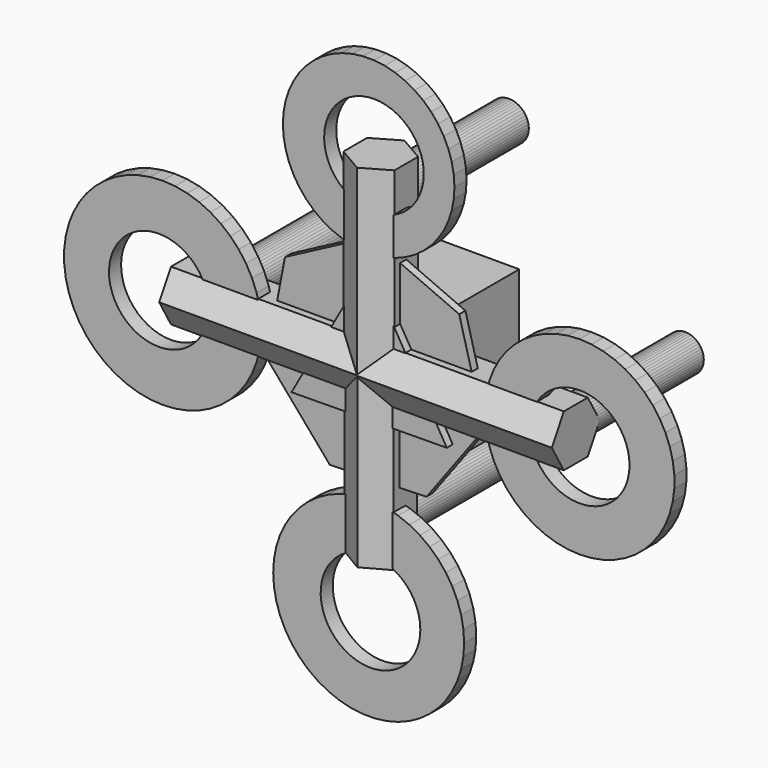
from build123d import *

# Parameters (mm, degrees)
F1_DEPTH  = 25.4
F3_DEPTH  = 12.954
F5_DEPTH  = 327.66
F7_DEPTH  = 332.74
F9_DEPTH  = 307.34
F11_DEPTH = 284.48
F12_R     = 83.720106
F14_DEPTH = 25.4
F13_R     = 83.720106
F15_DEPTH = 25.4
F16_W     = 225.521206
F16_H     = 225.521206
F17_DEPTH = 149.86
F19_DEPTH = 269.24
F21_DEPTH = 269.24
F23_DEPTH = 269.24
F25_DEPTH = 269.24


with BuildPart() as f1:
    # F0 (on Front) → F1 (new body)
    with BuildSketch(Plane.XZ):
        Polygon((-1.542326, 150.693503), (-129.733238, -76.682445), (131.275564, -74.011058), align=None)
    extrude(amount=F1_DEPTH)

    # F2 (on Front) → F3 (join)
    with BuildSketch(Plane.XZ):
        Polygon((-6.749487, 187.203073), (-150.569492, 111.442245), (-181.007598, -48.236866), (-75.143291, -171.592633), (87.305447, -165.735648), (184.011403, -35.076339), (142.153019, 121.996168), align=None)
    extrude(amount=F3_DEPTH)

    # F4 (on Right) → F5 (join)
    with BuildSketch(Plane.YZ):
        Polygon((-25.161333, -43.580707), (25.161333, -43.580707), (50.322666, 0), (25.161333, 43.580707), (-25.161333, 43.580707), (-50.322666, 0), align=None)
    extrude(amount=F5_DEPTH)

    # F6 (on Right) → F7 (join)
    with BuildSketch(Plane.YZ):
        Polygon((-24.636341, 42.756005), (-49.345957, 0.042305), (-24.709616, -42.7137), (24.636341, -42.756005), (49.345957, -0.042305), (24.709616, 42.7137), align=None)
    extrude(amount=-F7_DEPTH)

    # F8 (on Top) → F9 (join)
    with BuildSketch(Plane.XY):
        Polygon((-42.89576, 24.765879), (-42.89576, -24.765879), (0, -49.531758), (42.89576, -24.765879), (42.89576, 24.765879), (0, 49.531758), align=None)
    extrude(amount=F9_DEPTH)

    # F10 (on Top) → F11 (join)
    with BuildSketch(Plane.XY):
        Polygon((-42.112136, -23.318268), (-0.861856, -48.129313), (41.25028, -24.811046), (42.112136, 23.318268), (0.861856, 48.129313), (-41.25028, 24.811046), align=None)
    extrude(amount=-F11_DEPTH)

    # F12 (on Front) → F14 (join)
    with BuildSketch(Plane.XZ):
        Polygon((9.048537, 459.395528), (-9.048537, 459.395528), (-27.002909, 457.127363), (-44.53143, 452.626804), (-61.357663, 445.964827), (-77.216249, 437.246495), (-91.857089, 426.609303), (-105.049288, 414.221003), (-116.584797, 400.276969), (-126.281693, 384.997104), (-133.987052, 368.622383), (-139.579356, 351.411043), (-142.970409, 333.634519), (-144.106734, 315.573156), (-142.970409, 297.511793), (-139.579356, 279.735269), (-133.987052, 262.523929), (-126.281693, 246.149207), (-116.584797, 230.869343), (-105.049288, 216.925308), (-91.857089, 204.537009), (-77.216249, 193.899816), (-61.357663, 185.181485), (-44.53143, 178.519508), (-27.002909, 174.018949), (-9.048537, 171.750784), (9.048537, 171.750784), (27.002909, 174.018949), (44.53143, 178.519508), (61.357663, 185.181485), (77.216249, 193.899816), (91.857089, 204.537009), (105.049288, 216.925308), (116.584797, 230.869343), (126.281693, 246.149207), (133.987052, 262.523929), (139.579356, 279.735269), (142.970409, 297.511793), (144.106734, 315.573156), (142.970409, 333.634519), (139.579356, 351.411043), (133.987052, 368.622383), (126.281693, 384.997104), (116.584797, 400.276969), (105.049288, 414.221003), (91.857089, 426.609303), (77.216249, 437.246495), (61.357663, 445.964827), (44.53143, 452.626804), (27.002909, 457.127363), align=None)
        with Locations((8.90029, 318.443924)):
            Circle(F12_R, mode=Mode.SUBTRACT)
        Polygon((513.443708, -10.001018), (513.443708, 10.001018), (510.936789, 29.845331), (505.962485, 49.218966), (498.599244, 67.816388), (488.96319, 85.344305), (477.206289, 101.526291), (463.513954, 116.107148), (448.10212, 128.856925), (431.213843, 139.574551), (413.115461, 148.091004), (394.092395, 154.271973), (374.44465, 158.01998), (354.482085, 159.275919), (334.519519, 158.01998), (314.871774, 154.271973), (295.848708, 148.091004), (277.750326, 139.574551), (260.862049, 128.856925), (245.450215, 116.107148), (231.75788, 101.526291), (220.000979, 85.344305), (210.364925, 67.816388), (203.001684, 49.218966), (198.02738, 29.845331), (195.520461, 10.001018), (195.520461, -10.001018), (198.02738, -29.845331), (203.001684, -49.218966), (210.364925, -67.816388), (220.000979, -85.344305), (231.75788, -101.526291), (245.450215, -116.107148), (260.862049, -128.856925), (277.750326, -139.574551), (295.848708, -148.091004), (314.871774, -154.271973), (334.519519, -158.01998), (354.482085, -159.275919), (374.44465, -158.01998), (394.092395, -154.271973), (413.115461, -148.091004), (431.213843, -139.574551), (448.10212, -128.856925), (463.513954, -116.107148), (477.206289, -101.526291), (488.96319, -85.344305), (498.599244, -67.816388), (505.962485, -49.218966), (510.936789, -29.845331), align=None)
        with Locations((354.482085, 0)):
            Circle(F12_R, mode=Mode.SUBTRACT)
        Polygon((-511.508942, 10.412088), (-511.508942, -10.412088), (-508.89898, -31.072058), (-503.720219, -51.242004), (-496.054328, -70.603833), (-486.022205, -88.852197), (-473.782062, -105.699309), (-459.526933, -120.879479), (-443.48163, -134.153308), (-425.899197, -145.31146), (-407.05692, -154.177962), (-387.251952, -160.612987), (-366.79663, -164.515048), (-346.013546, -165.822609), (-325.230462, -164.515048), (-304.77514, -160.612987), (-284.970172, -154.177962), (-266.127895, -145.31146), (-248.545462, -134.153308), (-232.500159, -120.879479), (-218.24503, -105.699309), (-206.004887, -88.852197), (-195.972764, -70.603833), (-188.306873, -51.242004), (-183.128112, -31.072058), (-180.51815, -10.412088), (-180.51815, 10.412088), (-183.128112, 31.072058), (-188.306873, 51.242004), (-195.972764, 70.603833), (-206.004887, 88.852197), (-218.24503, 105.699309), (-232.500159, 120.879479), (-248.545462, 134.153308), (-266.127895, 145.31146), (-284.970172, 154.177962), (-304.77514, 160.612987), (-325.230462, 164.515048), (-346.013546, 165.822609), (-366.79663, 164.515048), (-387.251952, 160.612987), (-407.05692, 154.177962), (-425.899197, 145.31146), (-443.48163, 134.153308), (-459.526933, 120.879479), (-473.782062, 105.699309), (-486.022205, 88.852197), (-496.054328, 70.603833), (-503.720219, 51.242004), (-508.89898, 31.072058), align=None)
        with Locations((-352.541775, 1.622739)):
            Circle(F12_R, mode=Mode.SUBTRACT)
    extrude(amount=F14_DEPTH)

    # F13 (on Front) → F15 (join)
    with BuildSketch(Plane.XZ):
        Polygon((10.071129, -193.405256), (-10.071129, -193.405256), (-30.054558, -195.92975), (-49.56401, -200.938926), (-68.291807, -208.353785), (-85.942602, -218.057392), (-102.238031, -229.896714), (-116.921104, -243.685038), (-129.760262, -259.204914), (-140.553024, -276.211584), (-149.12918, -294.436844), (-155.35348, -313.593269), (-159.127762, -333.378752), (-160.392505, -353.481263), (-159.127762, -373.583774), (-155.35348, -393.369257), (-149.12918, -412.525682), (-140.553024, -430.750942), (-129.760262, -447.757612), (-116.921104, -463.277488), (-102.238031, -477.065812), (-85.942602, -488.905134), (-68.291807, -498.608741), (-49.56401, -506.0236), (-30.054558, -511.032776), (-10.071129, -513.55727), (10.071129, -513.55727), (30.054558, -511.032776), (49.56401, -506.0236), (68.291807, -498.608741), (85.942602, -488.905134), (102.238031, -477.065812), (116.921104, -463.277488), (129.760262, -447.757612), (140.553024, -430.750942), (149.12918, -412.525682), (155.35348, -393.369257), (159.127762, -373.583774), (160.392505, -353.481263), (159.127762, -333.378752), (155.35348, -313.593269), (149.12918, -294.436844), (140.553024, -276.211584), (129.760262, -259.204914), (116.921104, -243.685038), (102.238031, -229.896714), (85.942602, -218.057392), (68.291807, -208.353785), (49.56401, -200.938926), (30.054558, -195.92975), align=None)
        with Locations((3.043576, -357.316375)):
            Circle(F13_R, mode=Mode.SUBTRACT)
    extrude(amount=F15_DEPTH)

    # F16 (on Front) → F17 (join)
    with BuildSketch(Plane.XZ):
        Rectangle(F16_W, F16_H)
    extrude(amount=-F17_DEPTH)

    # F18 (on Front) → F19 (join)
    with BuildSketch(Plane.XZ):
        Polygon((316.049243, 23.975021), (312.887167, 26.284733), (309.460542, 28.179918), (305.823407, 29.63069), (302.033121, 30.614167), (298.149461, 31.114841), (294.233674, 31.124816), (290.347514, 30.643933), (286.552268, 29.679777), (282.907789, 28.247554), (279.471553, 26.369849), (276.297752, 24.076277), (273.436438, 21.403007), (270.932736, 18.392199), (268.82613, 15.091335), (267.149844, 11.552471), (265.930313, 7.831419), (265.18677, 3.98686), (264.930941, 0.079426), (265.166861, -3.829261), (265.890809, -7.677558), (267.091367, -11.404775), (268.749603, -14.952133), (270.839366, -18.263686), (273.327697, -21.287209), (276.175355, -23.975021), (279.337431, -26.284733), (282.764056, -28.179918), (286.401191, -29.63069), (290.191476, -30.614167), (294.075137, -31.114841), (297.990924, -31.124816), (301.877084, -30.643933), (305.67233, -29.679777), (309.316809, -28.247554), (312.753045, -26.369849), (315.926846, -24.076277), (318.78816, -21.403007), (321.291862, -18.392199), (323.398467, -15.091335), (325.074754, -11.552471), (326.294285, -7.831419), (327.037828, -3.98686), (327.293657, -0.079426), (327.057737, 3.829261), (326.333789, 7.677558), (325.133231, 11.404775), (323.474995, 14.952133), (321.385232, 18.263686), (318.896901, 21.287209), align=None)
    extrude(amount=-F19_DEPTH)

    # F20 (on Front) → F21 (join)
    with BuildSketch(Plane.XZ):
        Polygon((33.256076, 244.436196), (33.256076, 248.620786), (32.731608, 252.77238), (31.690943, 256.825503), (30.150493, 260.716236), (28.134551, 264.38322), (25.674911, 267.768625), (22.810362, 270.81906), (19.58608, 273.486418), (16.052914, 275.728633), (12.266584, 277.510345), (8.286802, 278.803454), (4.176333, 279.587568), (0, 279.850321), (-4.176333, 279.587568), (-8.286802, 278.803454), (-12.266584, 277.510345), (-16.052914, 275.728633), (-19.58608, 273.486418), (-22.810362, 270.81906), (-25.674911, 267.768625), (-28.134551, 264.38322), (-30.150493, 260.716236), (-31.690943, 256.825503), (-32.731608, 252.77238), (-33.256076, 248.620786), (-33.256076, 244.436196), (-32.731608, 240.284603), (-31.690943, 236.23148), (-30.150493, 232.340747), (-28.134551, 228.673762), (-25.674911, 225.288358), (-22.810362, 222.237923), (-19.58608, 219.570565), (-16.052914, 217.32835), (-12.266584, 215.546638), (-8.286802, 214.253529), (-4.176333, 213.469415), (0, 213.206662), (4.176333, 213.469415), (8.286802, 214.253529), (12.266584, 215.546638), (16.052914, 217.32835), (19.58608, 219.570565), (22.810362, 222.237923), (25.674911, 225.288358), (28.134551, 228.673762), (30.150493, 232.340747), (31.690943, 236.23148), (32.731608, 240.284603), align=None)
    extrude(amount=-F21_DEPTH)

    # F22 (on Front) → F23 (join)
    with BuildSketch(Plane.XZ):
        Polygon((-300.436741, 29.862599), (-304.070944, 27.901406), (-307.430688, 25.500191), (-310.462987, 22.696822), (-313.12002, 19.535511), (-315.359884, 16.066114), (-317.147256, 12.343344), (-318.453947, 8.425912), (-319.259349, 4.375599), (-319.550763, 0.25628), (-319.32359, -3.867081), (-318.581415, -7.929456), (-317.335942, -11.866778), (-315.606812, -15.616954), (-313.421295, -19.120842), (-310.813858, -22.323182), (-307.825622, -25.173473), (-304.503712, -27.626763), (-300.900519, -29.644362), (-297.072865, -31.194452), (-293.081116, -32.252587), (-288.988223, -32.802079), (-284.858734, -32.834263), (-280.757774, -32.348631), (-276.750017, -31.352841), (-272.898668, -29.862599), (-269.264465, -27.901406), (-265.904722, -25.500191), (-262.872423, -22.696822), (-260.215389, -19.535511), (-257.975525, -16.066114), (-256.188153, -12.343344), (-254.881463, -8.425912), (-254.07606, -4.375599), (-253.784647, -0.25628), (-254.011819, 3.867081), (-254.753994, 7.929456), (-255.999468, 11.866778), (-257.728597, 15.616954), (-259.914114, 19.120842), (-262.521551, 22.323182), (-265.509788, 25.173473), (-268.831697, 27.626763), (-272.43489, 29.644362), (-276.262544, 31.194452), (-280.254293, 32.252587), (-284.347186, 32.802079), (-288.476675, 32.834263), (-292.577635, 32.348631), (-296.585392, 31.352841), align=None)
    extrude(amount=-F23_DEPTH)

    # F24 (on Front) → F25 (join)
    with BuildSketch(Plane.XZ):
        Polygon((2.050338, -202.076212), (-2.050338, -202.076212), (-6.11868, -202.590163), (-10.090527, -203.60996), (-13.90324, -205.119519), (-17.496691, -207.095036), (-20.814208, -209.505353), (-23.803473, -212.31246), (-26.417343, -215.472086), (-28.614596, -218.934402), (-30.360579, -222.644805), (-31.627758, -226.544781), (-32.396148, -230.572823), (-32.653632, -234.665409), (-32.396148, -238.757994), (-31.627758, -242.786037), (-30.360579, -246.686012), (-28.614596, -250.396416), (-26.417343, -253.858732), (-23.803473, -257.018358), (-20.814208, -259.825464), (-17.496691, -262.235782), (-13.90324, -264.211298), (-10.090527, -265.720858), (-6.11868, -266.740655), (-2.050338, -267.254606), (2.050338, -267.254606), (6.11868, -266.740655), (10.090527, -265.720858), (13.90324, -264.211298), (17.496691, -262.235782), (20.814208, -259.825464), (23.803473, -257.018358), (26.417343, -253.858732), (28.614596, -250.396416), (30.360579, -246.686012), (31.627758, -242.786037), (32.396148, -238.757994), (32.653632, -234.665409), (32.396148, -230.572823), (31.627758, -226.544781), (30.360579, -222.644805), (28.614596, -218.934402), (26.417343, -215.472086), (23.803473, -212.31246), (20.814208, -209.505353), (17.496691, -207.095036), (13.90324, -205.119519), (10.090527, -203.60996), (6.11868, -202.590163), align=None)
    extrude(amount=-F25_DEPTH)


solid = f1.part
